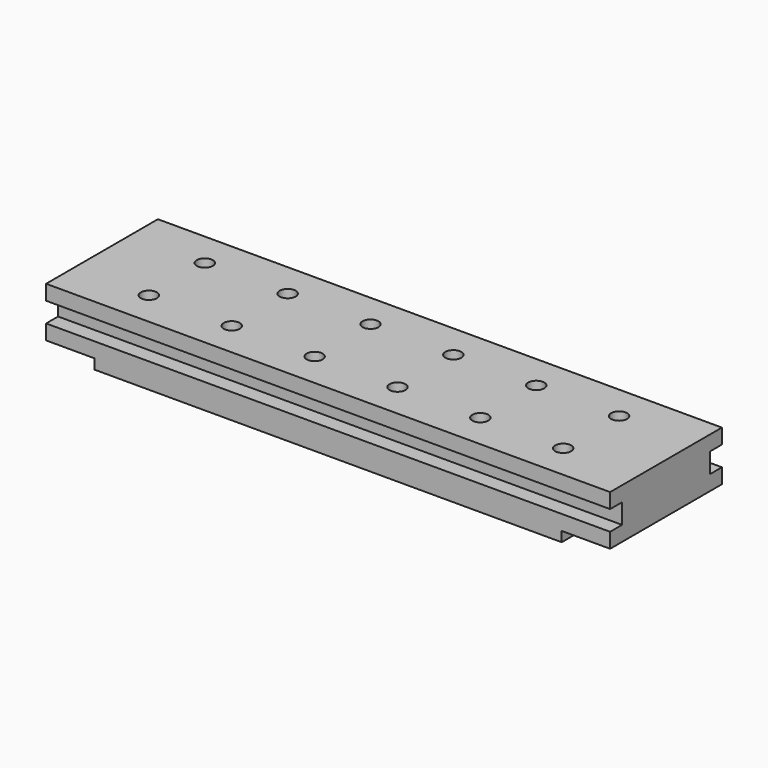
from build123d import *

# Parameters (mm, degrees)
SKETCH_W        = 113
SKETCH_H        = 28
SKETCH_R        = 1.6
PAD_DEPTH       = 10
SKETCH001_W     = 93.6
SKETCH001_H     = 28
SKETCH001_W_2   = 5.2
SKETCH001_H_2   = 5.2
PAD001_DEPTH    = 2
SKETCH002_W     = 3
SKETCH002_H     = 4
POCKET_DEPTH    = 113.001
SKETCH003_W     = 5.2
SKETCH003_H     = 7.2
POCKET001_DEPTH = 1


with BuildPart() as part:
    # Sketch → Pad (new body)
    with BuildSketch(Plane.XY):
        with Locations((41.5, 7)):
            Rectangle(SKETCH_W, SKETCH_H)
        Circle(SKETCH_R, mode=Mode.SUBTRACT)
        with Locations((0, 14)):
            Circle(SKETCH_R, mode=Mode.SUBTRACT)
        with Locations((16.6, 0)):
            Circle(SKETCH_R, mode=Mode.SUBTRACT)
        with Locations((16.6, 14)):
            Circle(SKETCH_R, mode=Mode.SUBTRACT)
        with Locations((33.2, 0)):
            Circle(SKETCH_R, mode=Mode.SUBTRACT)
        with Locations((33.2, 14)):
            Circle(SKETCH_R, mode=Mode.SUBTRACT)
        with Locations((49.8, 0)):
            Circle(SKETCH_R, mode=Mode.SUBTRACT)
        with Locations((49.8, 14)):
            Circle(SKETCH_R, mode=Mode.SUBTRACT)
        with Locations((66.4, 0)):
            Circle(SKETCH_R, mode=Mode.SUBTRACT)
        with Locations((66.4, 14)):
            Circle(SKETCH_R, mode=Mode.SUBTRACT)
        with Locations((83, 0)):
            Circle(SKETCH_R, mode=Mode.SUBTRACT)
        with Locations((83, 14)):
            Circle(SKETCH_R, mode=Mode.SUBTRACT)
    extrude(amount=PAD_DEPTH)

    # Sketch001 → Pad001 (join)
    with BuildSketch(Plane.XY):
        with Locations((41.5, 7)):
            Rectangle(SKETCH001_W, SKETCH001_H)
        Rectangle(SKETCH001_W_2, SKETCH001_H_2, mode=Mode.SUBTRACT)
        with Locations((0, 14)):
            Rectangle(SKETCH001_W_2, SKETCH001_H_2, mode=Mode.SUBTRACT)
        with Locations((16.6, 0)):
            Rectangle(SKETCH001_W_2, SKETCH001_H_2, mode=Mode.SUBTRACT)
        with Locations((16.6, 14)):
            Rectangle(SKETCH001_W_2, SKETCH001_H_2, mode=Mode.SUBTRACT)
        with Locations((33.2, 0)):
            Rectangle(SKETCH001_W_2, SKETCH001_H_2, mode=Mode.SUBTRACT)
        with Locations((33.2, 14)):
            Rectangle(SKETCH001_W_2, SKETCH001_H_2, mode=Mode.SUBTRACT)
        with Locations((49.8, 0)):
            Rectangle(SKETCH001_W_2, SKETCH001_H_2, mode=Mode.SUBTRACT)
        with Locations((49.8, 14)):
            Rectangle(SKETCH001_W_2, SKETCH001_H_2, mode=Mode.SUBTRACT)
        with Locations((66.4, 0)):
            Rectangle(SKETCH001_W_2, SKETCH001_H_2, mode=Mode.SUBTRACT)
        with Locations((66.4, 14)):
            Rectangle(SKETCH001_W_2, SKETCH001_H_2, mode=Mode.SUBTRACT)
        with Locations((83, 0)):
            Rectangle(SKETCH001_W_2, SKETCH001_H_2, mode=Mode.SUBTRACT)
        with Locations((83, 14)):
            Rectangle(SKETCH001_W_2, SKETCH001_H_2, mode=Mode.SUBTRACT)
    extrude(amount=-PAD001_DEPTH)

    # Sketch002 (on Face2 of Pad001) → Pocket (cut, through all)
    with BuildSketch(Plane(origin=(-15, 0, 0), x_dir=(0, -1, 0), z_dir=(-1, 0, 0))):
        with Locations((-19.5, 5)):
            Rectangle(SKETCH002_W, SKETCH002_H)
        with Locations((5.5, 5)):
            Rectangle(SKETCH002_W, SKETCH002_H)
    extrude(amount=-POCKET_DEPTH, mode=Mode.SUBTRACT)

    # Sketch003 → Pocket001 (cut)
    with BuildSketch(Plane.XY.offset(-2)):
        Rectangle(SKETCH003_W, SKETCH003_H)
        with Locations((0, 14)):
            Rectangle(SKETCH003_W, SKETCH003_H)
        with Locations((16.6, 0)):
            Rectangle(SKETCH003_W, SKETCH003_H)
        with Locations((16.6, 14)):
            Rectangle(SKETCH003_W, SKETCH003_H)
        with Locations((33.2, 0)):
            Rectangle(SKETCH003_W, SKETCH003_H)
        with Locations((33.2, 14)):
            Rectangle(SKETCH003_W, SKETCH003_H)
        with Locations((49.8, 0)):
            Rectangle(SKETCH003_W, SKETCH003_H)
        with Locations((49.8, 14)):
            Rectangle(SKETCH003_W, SKETCH003_H)
        with Locations((66.4, 0)):
            Rectangle(SKETCH003_W, SKETCH003_H)
        with Locations((66.4, 14)):
            Rectangle(SKETCH003_W, SKETCH003_H)
        with Locations((83, 0)):
            Rectangle(SKETCH003_W, SKETCH003_H)
        with Locations((83, 14)):
            Rectangle(SKETCH003_W, SKETCH003_H)
    extrude(amount=POCKET001_DEPTH, mode=Mode.SUBTRACT)


solid = part.part
